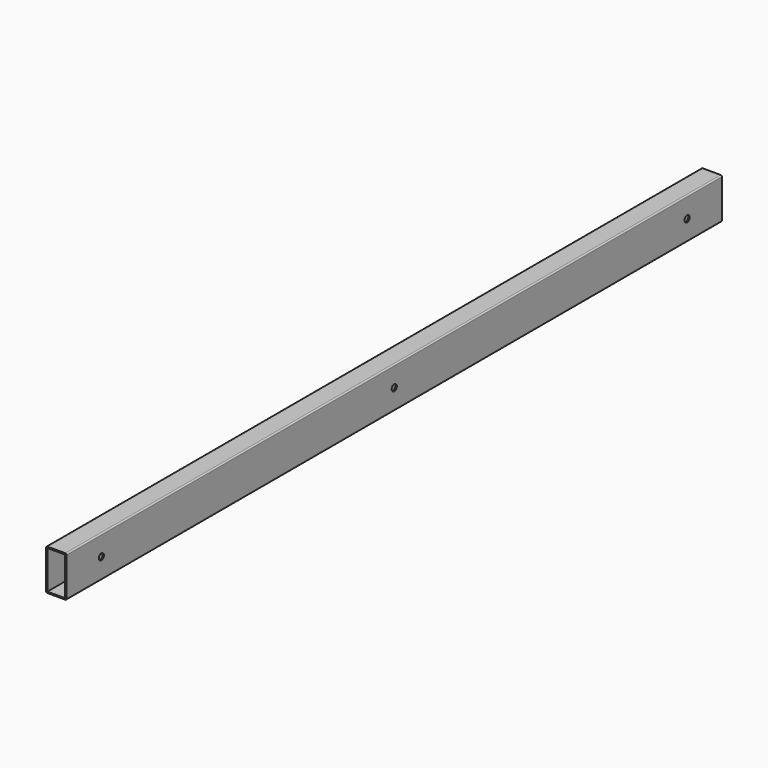
from build123d import *

# Parameters (mm, degrees)
F0_W     = 22.098
F0_H     = 47.498
F1_DEPTH = 1016
F2_R     = 3.96875
F3_DEPTH = 1.651
F4_R     = 9.525
F5_DEPTH = 1.651


with BuildPart() as f1:
    # F0 (on Front) → F1 (new body)
    with BuildSketch(Plane.XZ):
        with BuildLine():
            ThreePointArc((0, 1.651), (0.483567, 0.483567), (1.651, 0))
            Line((1.651, 0), (23.749, 0))
            ThreePointArc((23.749, 0), (24.916433, 0.483567), (25.4, 1.651))
            Line((25.4, 1.651), (25.4, 49.149))
            ThreePointArc((25.4, 49.149), (24.916433, 50.316433), (23.749, 50.8))
            Line((23.749, 50.8), (1.651, 50.8))
            ThreePointArc((1.651, 50.8), (0.483567, 50.316433), (0, 49.149))
            Line((0, 49.149), (0, 1.651))
        make_face()
        with Locations((12.7, 25.4)):
            Rectangle(F0_W, F0_H, mode=Mode.SUBTRACT)
    extrude(amount=F1_DEPTH)

    # F2 (on face) → F3 (cut, through all)
    with BuildSketch(Plane.YZ.offset(25.4)):
        with Locations((-508, 25.4)):
            Circle(F2_R)
        with Locations((-53.975, 25.4)):
            Circle(F2_R)
        with Locations((-962.025, 25.4)):
            Circle(F2_R)
    extrude(amount=-F3_DEPTH, mode=Mode.SUBTRACT)

    # F4 (on face) → F5 (cut, through all)
    with BuildSketch(Plane(origin=(0, 0, 0), x_dir=(0, -1, 0), z_dir=(-1, 0, 0))):
        with Locations((508, 25.4)):
            Circle(F4_R)
        with Locations((53.975, 25.4)):
            Circle(F4_R)
        with Locations((962.025, 25.4)):
            Circle(F4_R)
    extrude(amount=-F5_DEPTH, mode=Mode.SUBTRACT)


solid = f1.part
